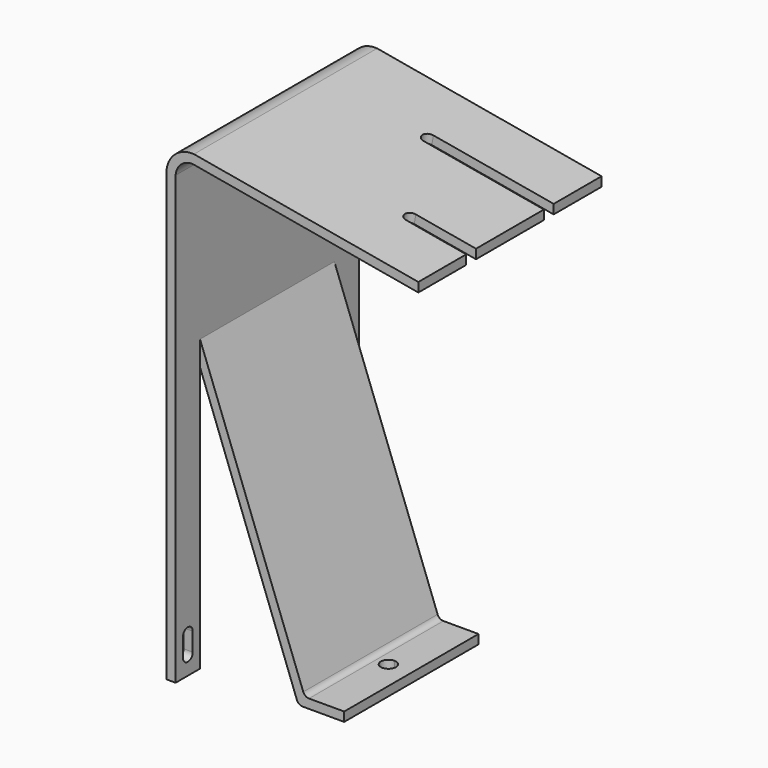
from build123d import *

# Parameters (mm, degrees)
F1_DEPTH  = 75
F2_W      = 55
F2_H      = 95
F3_DEPTH  = 3.001
F5_DEPTH  = 55
F7_DEPTH  = 3
F9_DEPTH  = 3
F10_R     = 2
F12_DEPTH = 3
F13_W     = 4
F13_H     = 3.0462798357
F14_DEPTH = 1


with BuildPart() as f1:
    # F0 (on Front) → F1 (new body)
    with BuildSketch(Plane.XZ):
        with BuildLine():
            Line((-3, 0), (0, 0))
            Line((0, 0), (0, 146.328642619))
            ThreePointArc((0, 146.328642619), (1.7690799336, 150.0361338491), (5.6451438845, 151.3967452123))
            Line((5.6451438845, 151.3967452123), (79.5057253604, 138.3731318873))
            Line((79.5057253604, 138.3731318873), (79.5057253604, 141.4194117229))
            Line((79.5057253604, 141.4194117229), (6.010801042, 154.3785498254))
            ThreePointArc((6.010801042, 154.3785498254), (-0.193413929, 152.3056303595), (-3, 146.396962731))
            Line((-3, 146.396962731), (-3, 146.1928579517))
            Line((-3, 146.1928579517), (-3, 0))
        make_face()
    extrude(amount=-F1_DEPTH)

    # F2 (on face) → F3 (cut, through all)
    with BuildSketch(Plane.YZ):
        with Locations((37.5, 47.5)):
            Rectangle(F2_W, F2_H)
    extrude(amount=-F3_DEPTH, mode=Mode.SUBTRACT)

    # F4 (on face) → F5 (join)
    with BuildSketch(Plane.XZ.offset(-65)):
        Polygon((0, 95), (-3, 95), (32.2094485164, 0), (47.2094485164, 0), (47.2094485164, 3), (34.2969885133, 3), align=None)
    extrude(amount=F5_DEPTH)

    # F6 (on face) → F7 (cut)
    with BuildSketch(Plane(origin=(0, 0, 0), x_dir=(1, 0, 0), z_dir=(0, 0, -1))):
        with BuildLine():
            ThreePointArc((42.2094485164, -37.5), (41.4772154693, -35.732233047), (39.7094485164, -35))
            Line((39.7094485164, -35), (39.7094485164, -40))
            ThreePointArc((39.7094485164, -40), (41.4772154693, -39.267766953), (42.2094485164, -37.5))
        make_face()
        with BuildLine():
            Line((39.7094485164, -40), (39.7094485164, -35))
            ThreePointArc((39.7094485164, -35), (37.2094485164, -37.5), (39.7094485164, -40))
        make_face()
    extrude(amount=-F7_DEPTH, mode=Mode.SUBTRACT)

    # F8 (on face) → F9 (cut, through all)
    with BuildSketch(Plane.YZ):
        with BuildLine():
            Line((7, 6), (7, 12))
            ThreePointArc((7, 12), (5, 14), (3, 12))
            Line((3, 12), (3, 6))
            ThreePointArc((3, 6), (5, 4), (7, 6))
        make_face()
        with BuildLine():
            ThreePointArc((72, 12), (70, 14), (68, 12))
            Line((68, 12), (68, 6))
            ThreePointArc((68, 6), (70, 4), (72, 6))
            Line((72, 6), (72, 12))
        make_face()
    extrude(amount=-F9_DEPTH, mode=Mode.SUBTRACT)

    # F10
    f10_edges = [f1.edges().sort_by_distance(p)[0] for p in [
        (32.209449, 37.5, 0),
        (34.296989, 37.5, 3),
    ]]
    fillet(f10_edges, radius=F10_R)

    # F11 (on face) → F12 (cut, through all)
    with BuildSketch(Plane(origin=(26.5815346978, 0, 150.7513744689), x_dir=(0.984807753, 0, -0.1736481777), z_dir=(0.1736481777, 0, 0.984807753))):
        with BuildLine():
            Line((53.7406316114, 23.6), (33.7406316114, 23.6))
            ThreePointArc((33.7406316114, 23.6), (31.7406316114, 21.6), (33.7406316114, 19.6))
            Line((33.7406316114, 19.6), (53.7406316114, 19.6))
            Line((53.7406316114, 19.6), (53.7406316114, 23.6))
        make_face()
        with BuildLine():
            Line((13.7406316114, 51.4), (33.7406316114, 51.4))
            Line((33.7406316114, 51.4), (53.7406316114, 51.4))
            Line((53.7406316114, 51.4), (53.7406316114, 55.4))
            Line((53.7406316114, 55.4), (13.7406316114, 55.4))
            ThreePointArc((13.7406316114, 55.4), (11.7406316114, 53.4), (13.7406316114, 51.4))
        make_face()
    extrude(amount=-F12_DEPTH, mode=Mode.SUBTRACT)

    # F13 (on face) → F14 (cut)
    with BuildSketch(Plane.YZ.offset(79.5057253604)):
        with Locations((21.6, 139.8962718051)):
            Rectangle(F13_W, F13_H)
        with Locations((53.4, 139.8962718051)):
            Rectangle(F13_W, F13_H)
    extrude(amount=-F14_DEPTH, mode=Mode.SUBTRACT)


solid = f1.part
